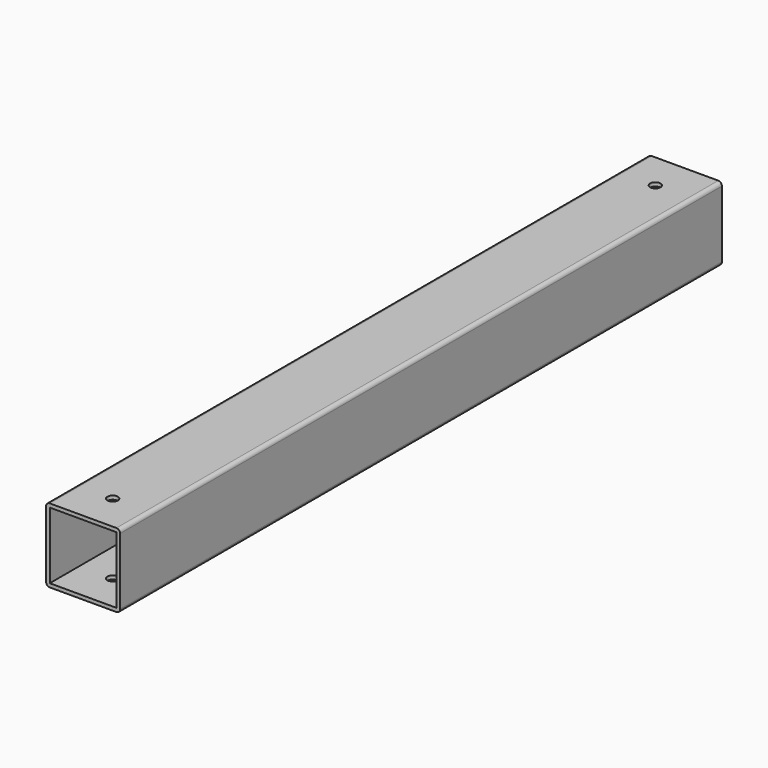
from build123d import *

# Parameters (mm, degrees)
SKETCH_W        = 60
SKETCH_H        = 60
SKETCH_W_2      = 54
SKETCH_H_2      = 54
PAD_DEPTH       = 610
SKETCH001_R     = 4.25
POCKET_DEPTH    = 3
SKETCH002_R     = 4.25
POCKET001_DEPTH = 3
FILLET_R        = 3


with BuildPart() as part:
    # Sketch → Pad (new body)
    with BuildSketch(Plane.XZ):
        Rectangle(SKETCH_W, SKETCH_H)
        Rectangle(SKETCH_W_2, SKETCH_H_2, mode=Mode.SUBTRACT)
    extrude(amount=PAD_DEPTH)

    # Sketch001 (on Face1 of Pad) → Pocket (cut)
    with BuildSketch(Plane(origin=(0, 0, 30), x_dir=(-1, 0, 0), z_dir=(0, 0, 1))):
        with Locations((0, 30)):
            Circle(SKETCH001_R)
        with Locations((0, 580)):
            Circle(SKETCH001_R)
    extrude(amount=-POCKET_DEPTH, mode=Mode.SUBTRACT)

    # Sketch002 (on Face8 of Pocket) → Pocket001 (cut)
    with BuildSketch(Plane(origin=(0, 0, -30), x_dir=(1, 0, 0), z_dir=(0, 0, -1))):
        with Locations((0, 30)):
            Circle(SKETCH002_R)
        with Locations((0, 580)):
            Circle(SKETCH002_R)
    extrude(amount=-POCKET001_DEPTH, mode=Mode.SUBTRACT)

    # Fillet
    fillet_edges = [part.edges().sort_by_distance(p)[0] for p in [
        (30, -305, 30),
        (30, -305, -30),
        (-30, -305, -30),
        (-30, -305, 30),
    ]]
    fillet(fillet_edges, radius=FILLET_R)


solid = part.part
